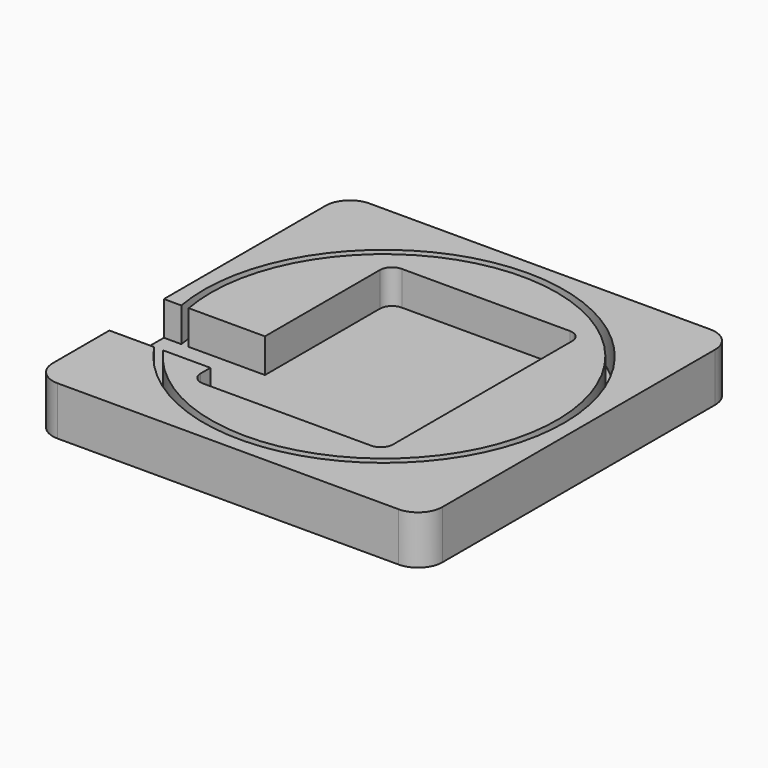
from build123d import *

# Parameters (mm, degrees)
F1_DEPTH = 10
F3_DEPTH = 7
F4_R     = 37
F4_R_2   = 35.5
F5_DEPTH = 7
F6_W     = 20.75
F6_H     = 14
F7_DEPTH = 7


with BuildPart() as f1:
    # F0 (on Top) → F1 (new body)
    with BuildSketch(Plane.XY):
        with BuildLine():
            Line((75, 80), (5, 80))
            ThreePointArc((5, 80), (1.464466, 78.535534), (0, 75))
            Line((0, 75), (0, 5))
            ThreePointArc((0, 5), (1.464466, 1.464466), (5, 0))
            Line((5, 0), (75, 0))
            ThreePointArc((75, 0), (78.535534, 1.464466), (80, 5))
            Line((80, 5), (80, 75))
            ThreePointArc((80, 75), (78.535534, 78.535534), (75, 80))
        make_face()
    extrude(amount=F1_DEPTH)

    # F2 (on face) → F3 (cut)
    with BuildSketch(Plane.XY.offset(10)):
        with BuildLine():
            ThreePointArc((20.75, 17), (21.482233, 15.232233), (23.25, 14.5))
            Line((23.25, 14.5), (57.75, 14.5))
            ThreePointArc((57.75, 14.5), (59.517767, 15.232233), (60.25, 17))
            Line((60.25, 17), (60.25, 63))
            ThreePointArc((60.25, 63), (59.517767, 64.767767), (57.75, 65.5))
            Line((57.75, 65.5), (23.25, 65.5))
            ThreePointArc((23.25, 65.5), (21.482233, 64.767767), (20.75, 63))
            Line((20.75, 63), (20.75, 17))
        make_face()
    extrude(amount=-F3_DEPTH, mode=Mode.SUBTRACT)

    # F4 (on face) → F5 (cut)
    with BuildSketch(Plane.XY.offset(10)):
        with Locations((40, 40)):
            Circle(F4_R)
        with Locations((40, 40)):
            Circle(F4_R_2, mode=Mode.SUBTRACT)
    extrude(amount=-F5_DEPTH, mode=Mode.SUBTRACT)

    # F6 (on face) → F7 (cut)
    with BuildSketch(Plane.XY.offset(10)):
        with Locations((10.375, 26.5)):
            Rectangle(F6_W, F6_H)
    extrude(amount=-F7_DEPTH, mode=Mode.SUBTRACT)


solid = f1.part
